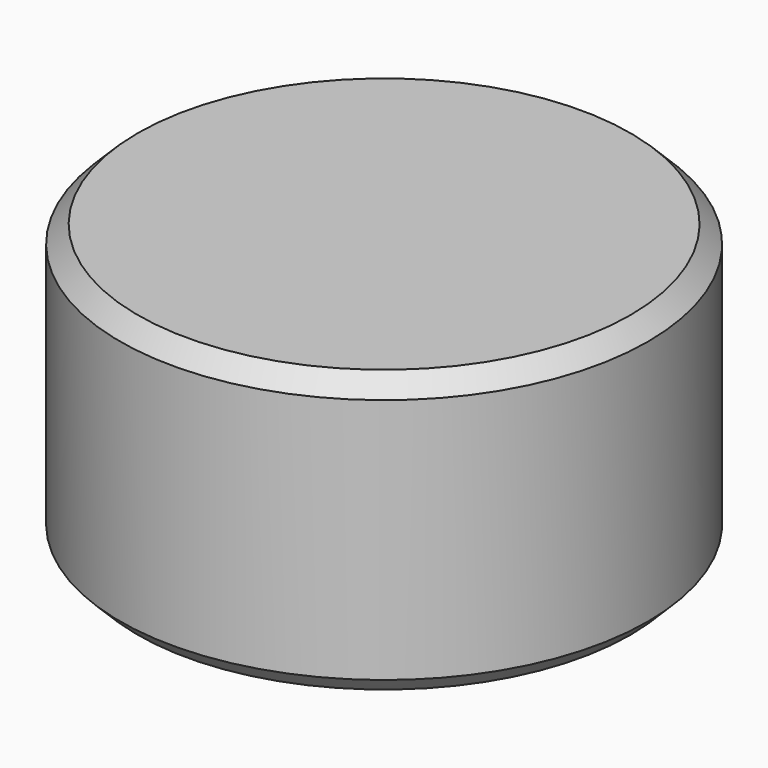
from build123d import *

# Parameters (mm, degrees)
CYLINDER038_R     = 30
CYLINDER038_DEPTH = 32
CHAMFER010_SIZE   = 2
CHAMFER011_SIZE   = 2


with BuildPart() as part:
    # Cylinder038 → Cylinder038 (join)
    with BuildSketch(Plane.XY.offset(-16)):
        Circle(CYLINDER038_R)
    extrude(amount=CYLINDER038_DEPTH)

    # Chamfer010
    chamfer010_edges = [part.edges().sort_by_distance(p)[0] for p in [
        (-30, 0, 16),
    ]]
    chamfer(chamfer010_edges, length=CHAMFER010_SIZE)

    # Chamfer011
    chamfer011_edges = [part.edges().sort_by_distance(p)[0] for p in [
        (-30, 0, -16),
    ]]
    chamfer(chamfer011_edges, length=CHAMFER011_SIZE)


solid = part.part
